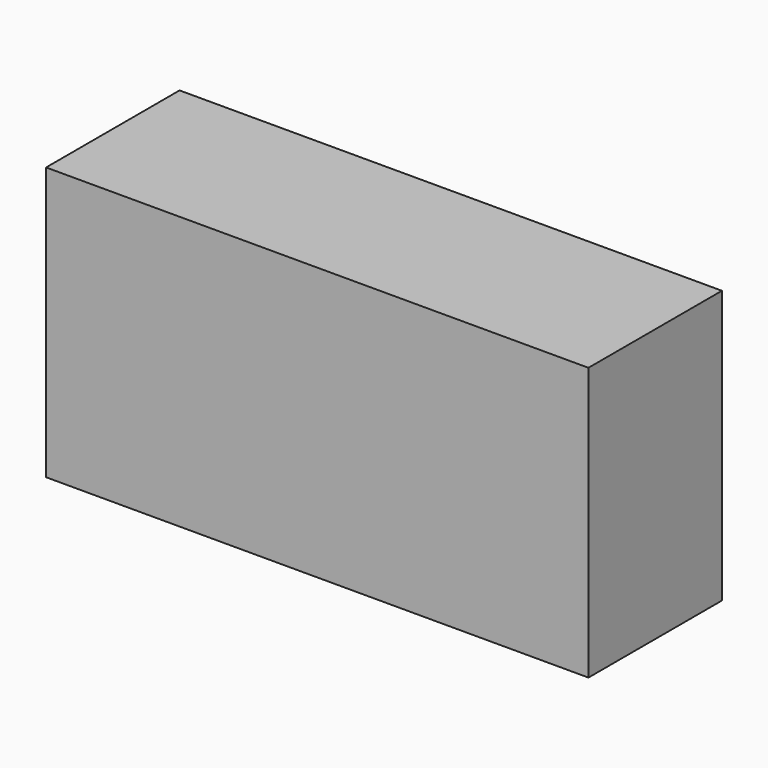
from build123d import *

# Parameters (mm, degrees)
F1_W     = 97.525328
F1_H     = 49.04291
F2_DEPTH = 30


with BuildPart() as f2:
    # F1 (on face) → F2 (new body)
    with BuildSketch(Plane.XZ):
        Rectangle(F1_W, F1_H)
    extrude(amount=F2_DEPTH)


solid = f2.part
